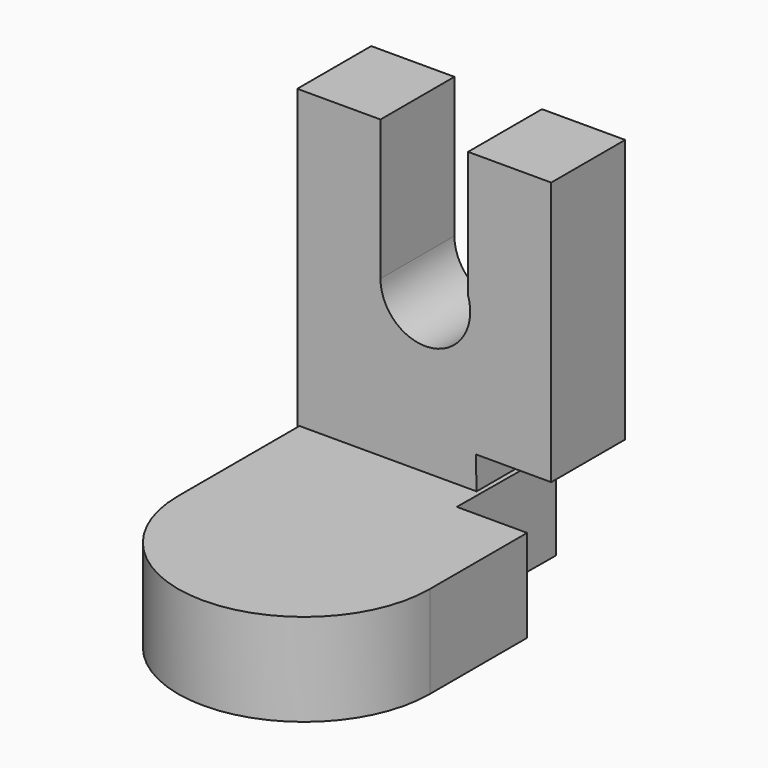
from build123d import *

# Parameters (mm, degrees)
F2_DEPTH = 12.7
F3_DEPTH = 12.7


with BuildPart() as f2:
    # F0 (on Top) → F2 (new body)
    with BuildSketch(Plane.XY):
        Polygon((-17.295394, 0), (-17.295394, -33.538029), (17.295394, -33.538029), (17.295394, -16.839271), (7.633907, -16.839271), (7.762433, 0), align=None)
        Polygon((-17.295394, 0), (-17.295394, -33.538029), (17.295394, -33.538029), (17.295394, -16.839271), (7.633907, -16.839271), (7.762433, 0), align=None)
        with BuildLine():
            Line((17.295394, -33.538029), (-17.295394, -33.538029))
            ThreePointArc((-17.295394, -33.538029), (0, -50.833423), (17.295394, -33.538029))
        make_face()
    extrude(amount=F2_DEPTH)

    # F1 (on Front) → F3 (join)
    with BuildSketch(Plane.XZ):
        with BuildLine():
            Line((-17.596183, 0), (7.369344, 0))
            Line((7.369344, 0), (6.928951, 17.147865))
            Line((6.928951, 17.147865), (17.295394, 17.147865))
            Line((17.295394, 17.147865), (17.295394, 53.390134))
            Line((17.295394, 53.390134), (5.865396, 53.390134))
            Line((5.865396, 53.390134), (5.865396, 36.041966))
            ThreePointArc((5.865396, 36.041966), (0.962996, 28.049083), (-6.166186, 34.139607))
            Line((-6.166186, 34.139607), (-6.166186, 53.390134))
            Line((-6.166186, 53.390134), (-17.596183, 53.390134))
            Line((-17.596183, 53.390134), (-17.596183, 0))
        make_face()
    extrude(amount=F3_DEPTH)


solid = f2.part
